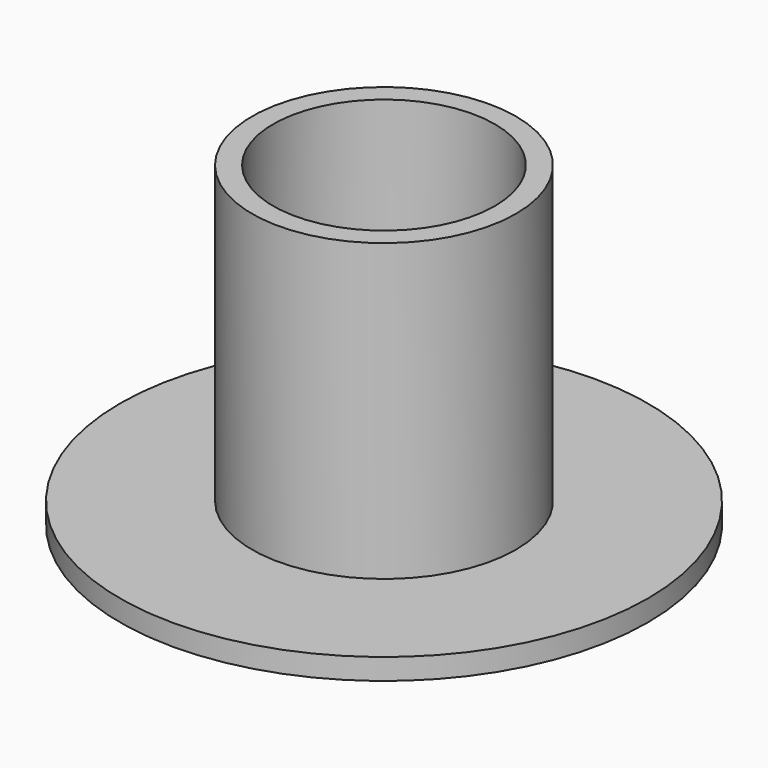
from build123d import *

# Parameters (mm, degrees)
F0_R     = 3.175
F1_DEPTH = 7.62
F2_T     = -0.508
F0_R_2   = 6.35
F3_DEPTH = 0.508


with BuildPart() as f1:
    # F0 (on Top) → F1 (new body)
    with BuildSketch(Plane.XY):
        Circle(F0_R)
    extrude(amount=F1_DEPTH)

    # F2
    f2_openings = [f1.faces().sort_by_distance(p)[0] for p in [
        (0, 0, 7.62),
    ]]
    offset(amount=F2_T, openings=f2_openings)

    # F0 (on Top) → F3 (join)
    with BuildSketch(Plane.XY):
        Circle(F0_R_2)
        Circle(F0_R, mode=Mode.SUBTRACT)
    extrude(amount=F3_DEPTH)


solid = f1.part
